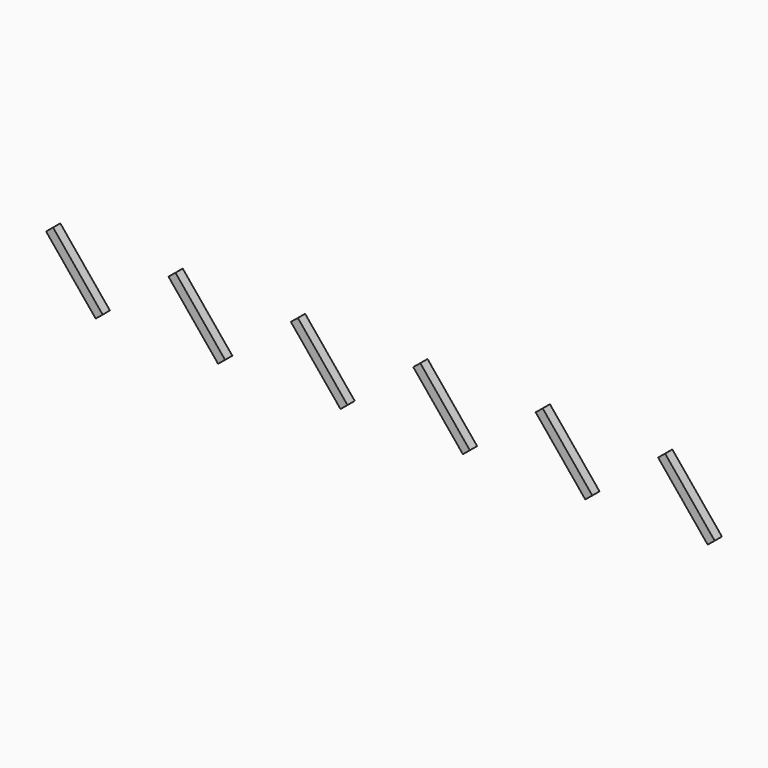
from build123d import *

# Parameters (mm, degrees)
EXTRUDE004_DEPTH           = 648.995554
EXTRUDE004_PLACEMENT_ANGLE = 39.278481
ARRAY002_X_COUNT           = 6
ARRAY002_X_PITCH           = 1014.285714


with BuildPart() as array002:
    # AngleSteel002 → Extrude004 (new body)
    with BuildSketch(Plane(origin=(16.91015, -23.58985, 0), x_dir=(0, 1, 0), z_dir=(0, 0, 1))):
        with BuildLine():
            Line((20.58985, -20.58985), (20.58985, 54.41015))
            Line((20.58985, 54.41015), (18.58985, 54.41015))
            ThreePointArc((18.58985, 54.41015), (15.761423, 53.238577), (14.58985, 50.41015))
            Line((14.58985, 50.41015), (14.58985, -6.08985))
            ThreePointArc((14.58985, -6.08985), (12.100258, -12.100258), (6.08985, -14.58985))
            Line((6.08985, -14.58985), (-50.41015, -14.58985))
            ThreePointArc((-50.41015, -14.58985), (-53.238577, -15.761423), (-54.41015, -18.58985))
            Line((-54.41015, -18.58985), (-54.41015, -20.58985))
            Line((-54.41015, -20.58985), (20.58985, -20.58985))
        make_face()
    extrude(amount=EXTRUDE004_DEPTH)


with BuildPart() as array002_1:
    # Extrude004 placement: moved
    add(array002.part.moved(Location((1041.39717, 0, 95.777088))).rotate(Axis((1041.39717, 0, 95.777088), (0, -1, 0)), EXTRUDE004_PLACEMENT_ANGLE))


with BuildPart() as array002_2:
    # Clone002 placement: moved
    add(array002_1.part.moved(Location((1024.285714, 0, -10))))

    # Array002 X: Array002 ×6


with BuildPart() as array002_3:
    add(array002_2.part)
    with Locations(*[(i * ARRAY002_X_PITCH, 0, 0) for i in range(1, ARRAY002_X_COUNT)]):
        add(array002_2.part)


with BuildPart() as array002_mirrored:
    # Mirror005: instance of Array002
    add(array002_3.part.mirror(Plane(origin=(-100, 0, 0), x_dir=(1, 0, 0), z_dir=(0, 1, 0))))


solid = array002_mirrored.part
